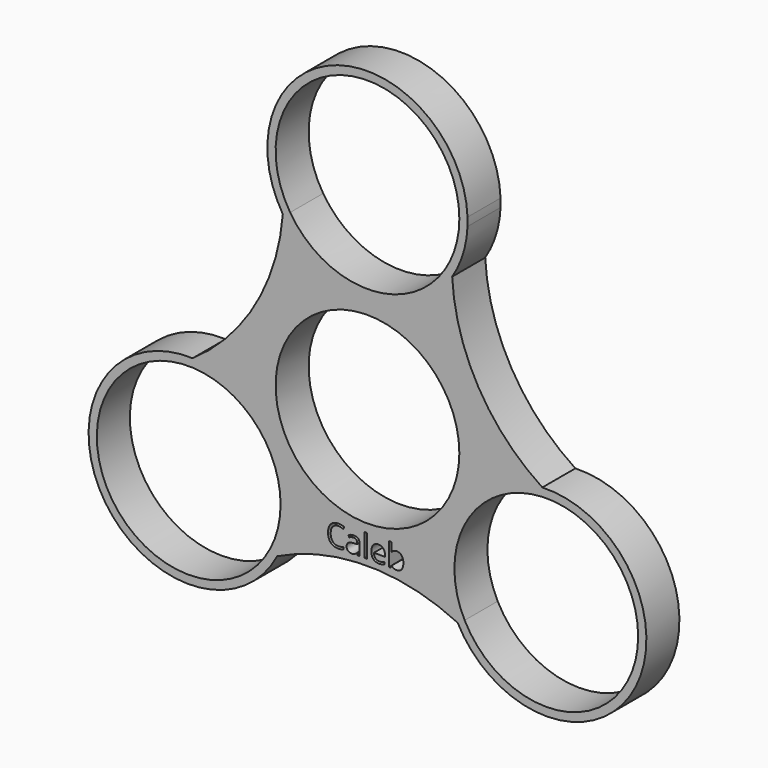
from build123d import *

# Parameters (mm, degrees)
F0_W     = 0.2963601055
F0_H     = 2.7768770578
F0_R     = 11.125
F1_DEPTH = 5


with BuildPart() as f1:
    # F0 (on Front) → F1 (new body)
    with BuildSketch(Plane.XZ):
        with BuildLine():
            ThreePointArc((-9.3657619737, 18.9959907018), (-3.1282201843, 35.6761352314), (11.125, 25))
            ThreePointArc((11.125, 25), (10.6761352314, 21.8717798157), (9.3657619737, 18.9959907018))
            ThreePointArc((9.3657619737, 18.9959907018), (9.8131970378, 18.7687592554), (10.2551228028, 18.5309907018))
            ThreePointArc((10.2551228028, 18.5309907018), (11.5743541209, 21.3875283137), (12.1141569215, 24.4873333616))
            ThreePointArc((12.1141569215, 24.4873333616), (12.1112920003, 24.9882665385), (12.1151275268, 25.4891932239))
            ThreePointArc((12.1151275268, 25.4891932239), (-3.6012567221, 36.5778484626), (-10.2551228028, 18.5309907018))
            ThreePointArc((-10.2551228028, 18.5309907018), (-9.8131970378, 18.7687592554), (-9.3657619737, 18.9959907018))
        make_face()
        with BuildLine():
            ThreePointArc((9.3657619737, 18.9959907018), (0, 13.875), (-9.3657619737, 18.9959907018))
            ThreePointArc((-9.3657619737, 18.9959907018), (-9.8131970378, 18.7687592554), (-10.2551228028, 18.5309907018))
            ThreePointArc((-10.2551228028, 18.5309907018), (-13.5687219352, 7.8339052618), (-21.1758701064, -0.3842984848))
            ThreePointArc((-21.1758701064, -0.3842984848), (-21.1608208316, -0.8859017006), (-21.1338915046, -1.3870075559))
            ThreePointArc((-21.1338915046, -1.3870075559), (-13.6034493307, -4.8183057676), (-10.5256350946, -12.5))
            ThreePointArc((-10.5256350946, -12.5), (-10.8407206779, -15.1289494674), (-11.768129531, -17.6089831459))
            ThreePointArc((-11.768129531, -17.6089831459), (-11.3476237938, -17.8828575548), (-10.9207473037, -18.146692217))
            ThreePointArc((-10.9207473037, -18.146692217), (0, -15.6352955158), (10.9207473037, -18.146692217))
            ThreePointArc((10.9207473037, -18.146692217), (11.3476237938, -17.8828575548), (11.768129531, -17.6089831459))
            ThreePointArc((11.768129531, -17.6089831459), (12.0161024775, -6.9375), (21.1338915046, -1.3870075559))
            ThreePointArc((21.1338915046, -1.3870075559), (21.1608208316, -0.8859017006), (21.1758701064, -0.3842984848))
            ThreePointArc((21.1758701064, -0.3842984848), (13.4445538567, 7.7622167883), (10.2551228028, 18.5309907018))
            ThreePointArc((10.2551228028, 18.5309907018), (9.8131970378, 18.7687592554), (9.3657619737, 18.9959907018))
        make_face()
        with BuildLine():
            add(Edge.make_bspline(
                [(-2.9348088368, -12.6714787014), (-3.2311689423, -12.5327205017), (-3.5275290478, -12.5327205017)],
                knots=[0, 0, 0, 1, 1, 1], degree=2))
            add(Edge.make_bspline(
                [(-3.5275290478, -12.5327205017), (-3.9575081604, -12.5327205017), (-4.2064734898, -12.8190877328)],
                knots=[0, 0, 0, 1, 1, 1], degree=2))
            add(Edge.make_bspline(
                [(-4.2064734898, -12.8190877328), (-4.4554388193, -13.1054549638), (-4.4554388193, -13.6033856227)],
                knots=[0, 0, 0, 1, 1, 1], degree=2))
            add(Edge.make_bspline(
                [(-4.4554388193, -13.6033856227), (-4.4554388193, -14.1150207952), (-4.2153243215, -14.3945357695)],
                knots=[0, 0, 0, 1, 1, 1], degree=2))
            add(Edge.make_bspline(
                [(-4.2153243215, -14.3945357695), (-3.9752098237, -14.6740507438), (-3.5309551762, -14.6740507438)],
                knots=[0, 0, 0, 1, 1, 1], degree=2))
            add(Edge.make_bspline(
                [(-3.5309551762, -14.6740507438), (-3.258006948, -14.6740507438), (-2.9079708311, -14.5758350633)],
                knots=[0, 0, 0, 1, 1, 1], degree=2))
            Line((-2.9079708311, -14.5758350633), (-2.9079708311, -14.8413600133))
            add(Edge.make_bspline(
                [(-2.9079708311, -14.8413600133), (-3.1792059951, -14.9435728435), (-3.5772079094, -14.9435728435)],
                knots=[0, 0, 0, 1, 1, 1], degree=2))
            add(Edge.make_bspline(
                [(-3.5772079094, -14.9435728435), (-4.1533684998, -14.9435728435), (-4.4665737366, -14.5935367267)],
                knots=[0, 0, 0, 1, 1, 1], degree=2))
            add(Edge.make_bspline(
                [(-4.4665737366, -14.5935367267), (-4.7797789733, -14.2435006098), (-4.7797789733, -13.599388473)],
                knots=[0, 0, 0, 1, 1, 1], degree=2))
            add(Edge.make_bspline(
                [(-4.7797789733, -13.599388473), (-4.7797789733, -13.1962473661), (-4.6290293243, -12.8930350038)],
                knots=[0, 0, 0, 1, 1, 1], degree=2))
            add(Edge.make_bspline(
                [(-4.6290293243, -12.8930350038), (-4.4782796752, -12.5898226415), (-4.1936255084, -12.4256539896)],
                knots=[0, 0, 0, 1, 1, 1], degree=2))
            add(Edge.make_bspline(
                [(-4.1936255084, -12.4256539896), (-3.9089713415, -12.2614853378), (-3.523531898, -12.2614853378)],
                knots=[0, 0, 0, 1, 1, 1], degree=2))
            add(Edge.make_bspline(
                [(-3.523531898, -12.2614853378), (-3.1135385343, -12.2614853378), (-2.8063290223, -12.411092944)],
                knots=[0, 0, 0, 1, 1, 1], degree=2))
            Line((-2.8063290223, -12.411092944), (-2.9348088368, -12.6714787014))
        make_face(mode=Mode.SUBTRACT)
        with BuildLine():
            Line((-0.9607878643, -14.9075984955), (-1.1806311025, -14.9075984955))
            Line((-1.1806311025, -14.9075984955), (-1.2394463065, -14.6289400533))
            Line((-1.2394463065, -14.6289400533), (-1.2537218414, -14.6289400533))
            add(Edge.make_bspline(
                [(-1.2537218414, -14.6289400533), (-1.3999033193, -14.8128089434), (-1.5452282651, -14.8781908935)],
                knots=[0, 0, 0, 1, 1, 1], degree=2))
            add(Edge.make_bspline(
                [(-1.5452282651, -14.8781908935), (-1.6905532108, -14.9435728435), (-1.9086833848, -14.9435728435)],
                knots=[0, 0, 0, 1, 1, 1], degree=2))
            add(Edge.make_bspline(
                [(-1.9086833848, -14.9435728435), (-2.1993332763, -14.9435728435), (-2.3643584603, -14.7933942159)],
                knots=[0, 0, 0, 1, 1, 1], degree=2))
            add(Edge.make_bspline(
                [(-2.3643584603, -14.7933942159), (-2.5293836443, -14.6432155883), (-2.5293836443, -14.3668412317)],
                knots=[0, 0, 0, 1, 1, 1], degree=2))
            add(Edge.make_bspline(
                [(-2.5293836443, -14.3668412317), (-2.5293836443, -13.7746920421), (-1.5820591452, -13.7461409722)],
                knots=[0, 0, 0, 1, 1, 1], degree=2))
            Line((-1.5820591452, -13.7461409722), (-1.2502957131, -13.7352915657))
            Line((-1.2502957131, -13.7352915657), (-1.2502957131, -13.6136640079))
            add(Edge.make_bspline(
                [(-1.2502957131, -13.6136640079), (-1.2502957131, -13.3835423846), (-1.3490824149, -13.2739062762)],
                knots=[0, 0, 0, 1, 1, 1], degree=2))
            add(Edge.make_bspline(
                [(-1.3490824149, -13.2739062762), (-1.4478691167, -13.1642701678), (-1.6659992907, -13.1642701678)],
                knots=[0, 0, 0, 1, 1, 1], degree=2))
            add(Edge.make_bspline(
                [(-1.6659992907, -13.1642701678), (-1.910396449, -13.1642701678), (-2.2187480038, -13.313877774)],
                knots=[0, 0, 0, 1, 1, 1], degree=2))
            Line((-2.2187480038, -13.313877774), (-2.3101114275, -13.0871822791))
            add(Edge.make_bspline(
                [(-2.3101114275, -13.0871822791), (-2.1656430138, -13.0089523476), (-1.9934800624, -12.9644126785)],
                knots=[0, 0, 0, 1, 1, 1], degree=2))
            add(Edge.make_bspline(
                [(-1.9934800624, -12.9644126785), (-1.8213171109, -12.9198730095), (-1.647726606, -12.9198730095)],
                knots=[0, 0, 0, 1, 1, 1], degree=2))
            add(Edge.make_bspline(
                [(-1.647726606, -12.9198730095), (-1.2982615105, -12.9198730095), (-1.1295246874, -13.074905319)],
                knots=[0, 0, 0, 1, 1, 1], degree=2))
            add(Edge.make_bspline(
                [(-1.1295246874, -13.074905319), (-0.9607878643, -13.2299376285), (-0.9607878643, -13.5725504673)],
                knots=[0, 0, 0, 1, 1, 1], degree=2))
            Line((-0.9607878643, -13.5725504673), (-0.9607878643, -14.9075984955))
        make_face(mode=Mode.SUBTRACT)
        with Locations((-0.2027569587, -13.5191599666)):
            Rectangle(F0_W, F0_H, mode=Mode.SUBTRACT)
        with BuildLine():
            add(Edge.make_bspline(
                [(1.737859262, -14.9138797309), (1.5979590195, -14.9435728435), (1.3998145945, -14.9435728435)],
                knots=[0, 0, 0, 1, 1, 1], degree=2))
            add(Edge.make_bspline(
                [(1.3998145945, -14.9435728435), (0.9664093535, -14.9435728435), (0.7154454491, -14.6791899363)],
                knots=[0, 0, 0, 1, 1, 1], degree=2))
            add(Edge.make_bspline(
                [(0.7154454491, -14.6791899363), (0.4644815447, -14.4148070291), (0.4644815447, -13.9459984615)],
                knots=[0, 0, 0, 1, 1, 1], degree=2))
            add(Edge.make_bspline(
                [(0.4644815447, -13.9459984615), (0.4644815447, -13.4726217226), (0.6974582751, -13.1942487912)],
                knots=[0, 0, 0, 1, 1, 1], degree=2))
            add(Edge.make_bspline(
                [(0.6974582751, -13.1942487912), (0.9304350054, -12.9158758597), (1.3232977271, -12.9158758597)],
                knots=[0, 0, 0, 1, 1, 1], degree=2))
            add(Edge.make_bspline(
                [(1.3232977271, -12.9158758597), (1.690464486, -12.9158758597), (1.9045975102, -13.1577034217)],
                knots=[0, 0, 0, 1, 1, 1], degree=2))
            add(Edge.make_bspline(
                [(1.9045975102, -13.1577034217), (2.1187305344, -13.3995309837), (2.1187305344, -13.7958198338)],
                knots=[0, 0, 0, 1, 1, 1], degree=2))
            Line((2.1187305344, -13.7958198338), (2.1187305344, -13.9831148523))
            Line((2.1187305344, -13.9831148523), (0.7716910568, -13.9831148523))
            add(Edge.make_bspline(
                [(0.7716910568, -13.9831148523), (0.7808273992, -14.3274407552), (0.9458525831, -14.5058849421)],
                knots=[0, 0, 0, 1, 1, 1], degree=2))
            add(Edge.make_bspline(
                [(0.9458525831, -14.5058849421), (1.1108777671, -14.6843291289), (1.410664001, -14.6843291289)],
                knots=[0, 0, 0, 1, 1, 1], degree=2))
            add(Edge.make_bspline(
                [(1.410664001, -14.6843291289), (1.726438834, -14.6843291289), (2.0347903889, -14.552423186)],
                knots=[0, 0, 0, 1, 1, 1], degree=2))
            Line((2.0347903889, -14.552423186), (2.0347903889, -14.8168060932))
            add(Edge.make_bspline(
                [(2.0347903889, -14.8168060932), (1.8777595045, -14.8841866182), (1.737859262, -14.9138797309)],
                knots=[0, 0, 0, 1, 1, 1], degree=2))
        make_face(mode=Mode.SUBTRACT)
        with BuildLine():
            add(Edge.make_bspline(
                [(2.920444577, -13.2122359652), (3.127154323, -12.9198730095), (3.5342925797, -12.9198730095)],
                knots=[0, 0, 0, 1, 1, 1], degree=2))
            add(Edge.make_bspline(
                [(3.5342925797, -12.9198730095), (3.9197320233, -12.9198730095), (4.1330085154, -13.1831138739)],
                knots=[0, 0, 0, 1, 1, 1], degree=2))
            add(Edge.make_bspline(
                [(4.1330085154, -13.1831138739), (4.3462850075, -13.4463547383), (4.3462850075, -13.9277257767)],
                knots=[0, 0, 0, 1, 1, 1], degree=2))
            add(Edge.make_bspline(
                [(4.3462850075, -13.9277257767), (4.3462850075, -14.4096678365), (4.1312954512, -14.67662034)],
                knots=[0, 0, 0, 1, 1, 1], degree=2))
            add(Edge.make_bspline(
                [(4.1312954512, -14.67662034), (3.9163058949, -14.9435728435), (3.5342925797, -14.9435728435)],
                knots=[0, 0, 0, 1, 1, 1], degree=2))
            add(Edge.make_bspline(
                [(3.5342925797, -14.9435728435), (3.3430004114, -14.9435728435), (3.1851129949, -14.8730517009)],
                knots=[0, 0, 0, 1, 1, 1], degree=2))
            add(Edge.make_bspline(
                [(3.1851129949, -14.8730517009), (3.0272255784, -14.8025305583), (2.920444577, -14.655778059)],
                knots=[0, 0, 0, 1, 1, 1], degree=2))
            Line((2.920444577, -14.655778059), (2.8987457639, -14.655778059))
            Line((2.8987457639, -14.655778059), (2.8365044315, -14.9075984955))
            Line((2.8365044315, -14.9075984955), (2.6240844715, -14.9075984955))
            Line((2.6240844715, -14.9075984955), (2.6240844715, -12.1307214376))
            Line((2.6240844715, -12.1307214376), (2.920444577, -12.1307214376))
            Line((2.920444577, -12.1307214376), (2.920444577, -12.8056687299))
            add(Edge.make_bspline(
                [(2.920444577, -12.8056687299), (2.920444577, -13.0323642249), (2.906169042, -13.2122359652)],
                knots=[0, 0, 0, 1, 1, 1], degree=2))
            Line((2.906169042, -13.2122359652), (2.920444577, -13.2122359652))
        make_face(mode=Mode.SUBTRACT)
        Circle(F0_R, mode=Mode.SUBTRACT)
        with BuildLine():
            ThreePointArc((12.1141569215, 24.4873333616), (12.1249943099, 24.9882532637), (12.1151275268, 25.4891932239))
            ThreePointArc((12.1151275268, 25.4891932239), (12.1112920003, 24.9882665385), (12.1141569215, 24.4873333616))
        make_face()
        with BuildLine():
            ThreePointArc((-21.1338915046, -1.3870075559), (-21.1608208316, -0.8859017006), (-21.1758701064, -0.3842984848))
            ThreePointArc((-21.1758701064, -0.3842984848), (-32.1511931155, -18.5625), (-10.9207473037, -18.146692217))
            ThreePointArc((-10.9207473037, -18.146692217), (-11.3476237938, -17.8828575548), (-11.768129531, -17.6089831459))
            ThreePointArc((-11.768129531, -17.6089831459), (-31.2851677117, -18.0625), (-21.1338915046, -1.3870075559))
        make_face()
        with BuildLine():
            ThreePointArc((10.9207473037, -18.146692217), (32.1511931155, -18.5625), (21.1758701064, -0.3842984848))
            ThreePointArc((21.1758701064, -0.3842984848), (21.1608208316, -0.8859017006), (21.1338915046, -1.3870075559))
            ThreePointArc((21.1338915046, -1.3870075559), (29.3323293271, -4.4528142361), (32.7756350946, -12.5))
            ThreePointArc((32.7756350946, -12.5), (24.279584562, -23.3099144168), (11.768129531, -17.6089831459))
            ThreePointArc((11.768129531, -17.6089831459), (11.3476237938, -17.8828575548), (10.9207473037, -18.146692217))
        make_face()
    extrude(amount=F1_DEPTH)


solid = f1.part
